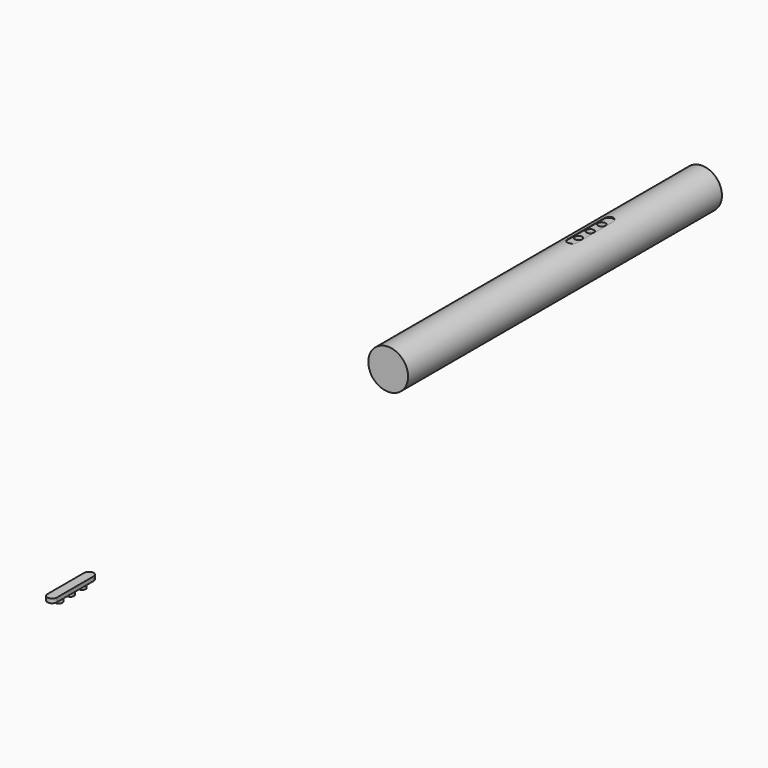
from build123d import *

# Parameters (mm, degrees)
F0_R      = 19
F1_DEPTH  = 375
F4_DEPTH  = 5
F5_R      = 3.5
F6_DEPTH  = 4
F8_DEPTH  = 4
F9_R      = 3.5
F10_DEPTH = 4


with BuildPart() as f1:
    # F0 (on Front) → F1 (new body)
    with BuildSketch(Plane.XZ):
        Circle(F0_R)
    extrude(amount=F1_DEPTH)

    # F3 (on offset) → F4 (cut)
    with BuildSketch(Plane.XY.offset(18)):
        with BuildLine():
            Line((4.5, -155.55), (4.5, -111.55))
            ThreePointArc((4.5, -111.55), (0, -107.05), (-4.5, -111.55))
            Line((-4.5, -111.55), (-4.5, -155.55))
            ThreePointArc((-4.5, -155.55), (0, -160.05), (4.5, -155.55))
        make_face()
    extrude(amount=F4_DEPTH, mode=Mode.SUBTRACT)

    # F5 (on face) → F6 (cut)
    with BuildSketch(Plane.XY.offset(18)):
        with Locations((0, -147.55)):
            Circle(F5_R)
        with Locations((0, -133.55)):
            Circle(F5_R)
        with Locations((-0.199509, -119.55)):
            Circle(F5_R)
    extrude(amount=-F6_DEPTH, mode=Mode.SUBTRACT)


with BuildPart() as f8:
    # F7 (on offset) → F8 (new body)
    with BuildSketch(Plane.XY.offset(18)):
        with BuildLine():
            Line((63.747939, -850.660761), (63.747939, -806.660761))
            ThreePointArc((63.747939, -806.660761), (59.247939, -802.160761), (54.747939, -806.660761))
            Line((54.747939, -806.660761), (54.747939, -850.660761))
            ThreePointArc((54.747939, -850.660761), (59.247939, -855.160761), (63.747939, -850.660761))
        make_face()
    extrude(amount=F8_DEPTH)

    # F9 (on face) → F10 (join)
    with BuildSketch(Plane.XY.offset(18)):
        with Locations((59.247939, -842.660761)):
            Circle(F9_R)
        with Locations((59.247939, -828.660761)):
            Circle(F9_R)
        with Locations((59.04843, -814.660761)):
            Circle(F9_R)
    extrude(amount=-F10_DEPTH)


solid = Compound([f1.part, f8.part])
